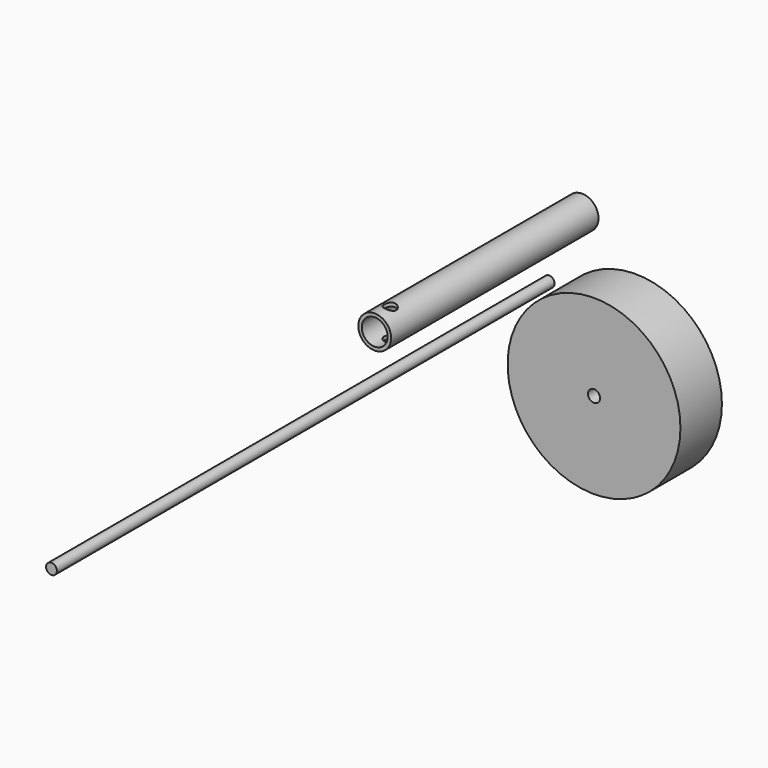
from build123d import *

# Parameters (mm, degrees)
F0_R     = 7.9375
F1_DEPTH = 914.4
F0_R_2   = 127
F0_R_3   = 8.89
F2_DEPTH = 76.2
F0_R_4   = 24.13
F3_DEPTH = 381
F4_R     = 19.05
F5_DEPTH = 381.001
F6_R     = 8.73125
F7_DEPTH = 254


with BuildPart() as f1:
    # F0 (on Front) → F1 (new body)
    with BuildSketch(Plane.XZ):
        with Locations((-27.199171, 32.797288)):
            Circle(F0_R)
    extrude(amount=F1_DEPTH)


with BuildPart() as f2:
    # F0 (on Front) → F2 (new body)
    with BuildSketch(Plane.XZ):
        with Locations((99.682331, -42.99549)):
            Circle(F0_R_2)
        with Locations((99.682331, -42.99549)):
            Circle(F0_R_3, mode=Mode.SUBTRACT)
    extrude(amount=F2_DEPTH)


with BuildPart() as f3:
    # F0 (on Front) → F3 (new body)
    with BuildSketch(Plane.XZ):
        with Locations((21.147744, 138.224724)):
            Circle(F0_R_4)
    extrude(amount=F3_DEPTH)

    # F4 (on face) → F5 (cut, through all)
    with BuildSketch(Plane.XZ.offset(381)):
        with Locations((21.147744, 138.224724)):
            Circle(F4_R)
    extrude(amount=-F5_DEPTH, mode=Mode.SUBTRACT)

    # F6 (on Top) → F7 (cut)
    with BuildSketch(Plane.XY):
        with Locations((23.622749, -355.6)):
            Circle(F6_R)
    extrude(amount=F7_DEPTH, mode=Mode.SUBTRACT)


solid = Compound([f1.part, f2.part, f3.part])
